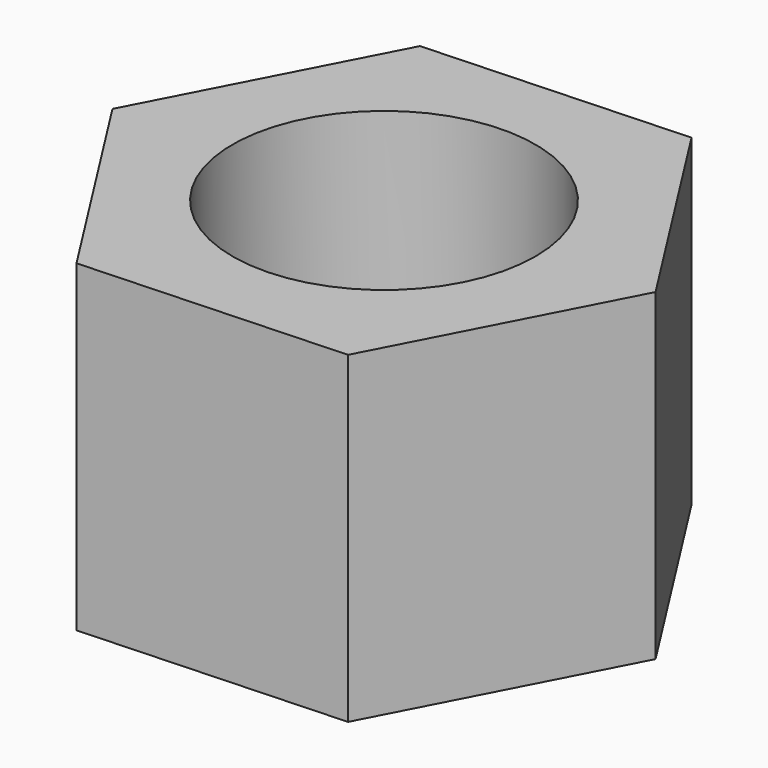
from build123d import *

# Parameters (mm, degrees)
F1_DEPTH = 5.08
F2_R     = 2.38125
F3_DEPTH = 5.081


with BuildPart() as f1:
    # F0 (on Top) → F1 (new body)
    with BuildSketch(Plane.XY):
        Polygon((4.123515, 0.181328), (1.904723, 3.661733), (-2.218792, 3.480405), (-4.123515, -0.181328), (-1.904723, -3.661733), (2.218792, -3.480405), align=None)
    extrude(amount=F1_DEPTH)

    # F2 (on face) → F3 (cut, through all)
    with BuildSketch(Plane.XY.offset(5.08)):
        Circle(F2_R)
    extrude(amount=-F3_DEPTH, mode=Mode.SUBTRACT)


solid = f1.part
